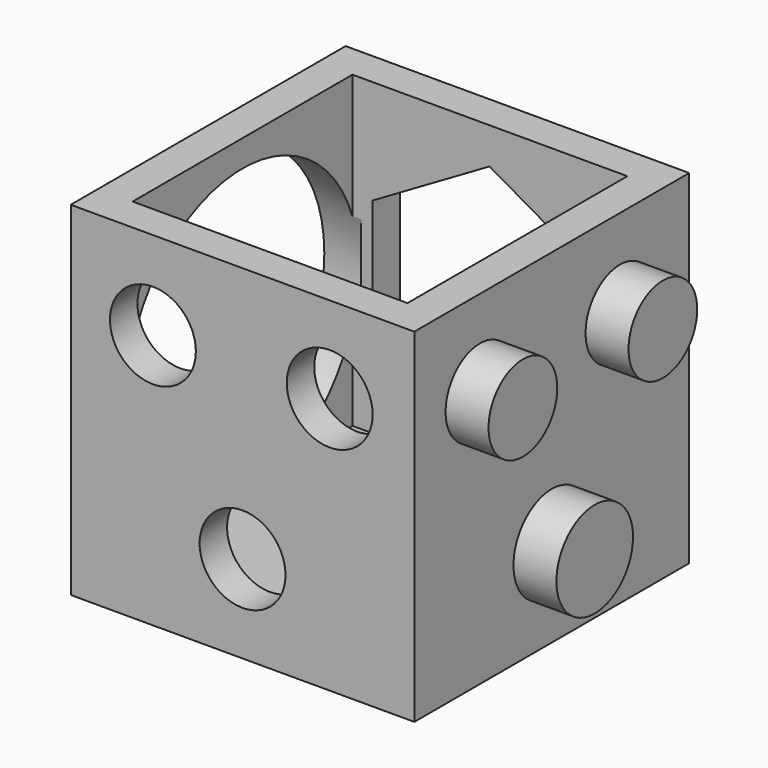
from build123d import *

# Parameters (mm, degrees)
F0_W      = 50.8
F0_H      = 50.8
F1_DEPTH  = 50.8
F3_T      = -5.08
F5_DEPTH  = 6.35
F6_R      = 21.461157
F7_DEPTH  = 6.35
F8_R      = 6.35
F8_R_2    = 7.078549
F9_DEPTH  = 6.35
F10_R     = 6.35
F11_DEPTH = 6.35


with BuildPart() as f1:
    # F0 (on Front) → F1 (new body)
    with BuildSketch(Plane.XZ):
        with Locations((-31.816838, -25.4)):
            Rectangle(F0_W, F0_H)
    extrude(amount=F1_DEPTH)

    # F3
    f3_openings = [f1.faces().sort_by_distance(p)[0] for p in [
        (-31.816838, -25.4, 0),
    ]]
    offset(amount=F3_T, openings=f3_openings)

    # F4 (on face) → F5 (cut)
    with BuildSketch(Plane(origin=(0, 0, 0), x_dir=(-1, 0, 0), z_dir=(0, 1, 0))):
        Polygon((49.197904, -15.436697), (31.878897, -5.365904), (14.497831, -15.329207), (14.435772, -35.363303), (31.754779, -45.434096), (49.135845, -35.470793), align=None)
    extrude(amount=-F5_DEPTH, mode=Mode.SUBTRACT)

    # F6 (on face) → F7 (cut)
    with BuildSketch(Plane(origin=(-57.216838, 0, 0), x_dir=(0, -1, 0), z_dir=(-1, 0, 0))):
        with Locations((25.4, -25.4)):
            Circle(F6_R)
    extrude(amount=-F7_DEPTH, mode=Mode.SUBTRACT)

    # F8 (on face) → F9 (join)
    with BuildSketch(Plane.YZ.offset(-6.416838)):
        with Locations((-38.671501, -12.8016)):
            Circle(F8_R)
        with Locations((-12.8016, -13.0683)):
            Circle(F8_R)
        with Locations((-25.4, -37.871402)):
            Circle(F8_R_2)
    extrude(amount=F9_DEPTH)

    # F10 (on face) → F11 (cut)
    with BuildSketch(Plane.XZ.offset(50.8)):
        with Locations((-31.816838, -37.871402)):
            Circle(F10_R)
        with Locations((-18.935701, -12.8016)):
            Circle(F10_R)
        with Locations((-45.072298, -13.0683)):
            Circle(F10_R)
    extrude(amount=-F11_DEPTH, mode=Mode.SUBTRACT)


solid = f1.part
